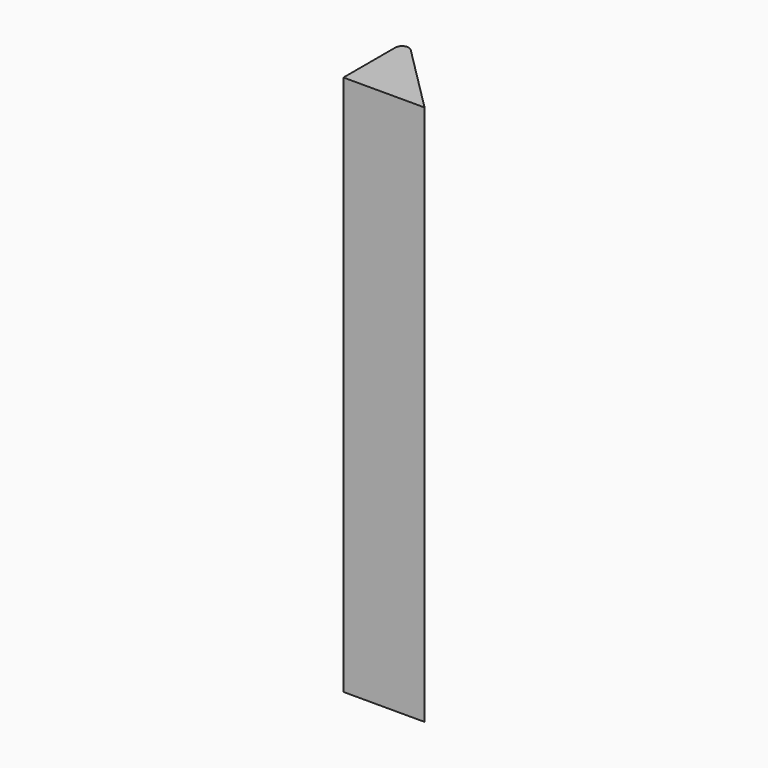
from build123d import *

# Parameters (mm, degrees)
F1_DEPTH = 40
F2_R     = 0.5


with BuildPart() as f1:
    # F0 (on Top) → F1 (new body)
    with BuildSketch(Plane.XY):
        Polygon((-55.583997, 43.760874), (-61.583997, 49.760874), (-61.583997, 43.760874), align=None)
    extrude(amount=F1_DEPTH)

    # F2
    f2_edges = [f1.edges().sort_by_distance(p)[0] for p in [
        (-61.583997, 49.760874, 20),
    ]]
    fillet(f2_edges, radius=F2_R)


solid = f1.part
